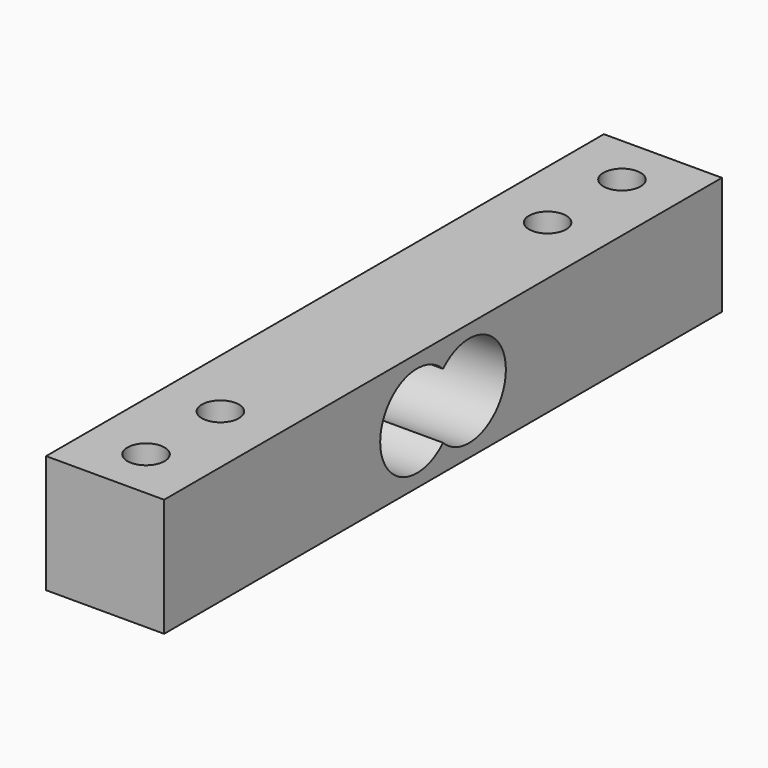
from build123d import *

# Parameters (mm, degrees)
SKETCH_W     = 12.7
SKETCH_H     = 75
SKETCH_R     = 2
PAD_DEPTH    = 12.7
POCKET_DEPTH = 12.701


with BuildPart() as part:
    # Sketch → Pad (new body)
    with BuildSketch(Plane.XY):
        with Locations((6.35, 37.5)):
            Rectangle(SKETCH_W, SKETCH_H)
        with Locations((6.35, 69.5)):
            Circle(SKETCH_R, mode=Mode.SUBTRACT)
        with Locations((6.35, 59.5)):
            Circle(SKETCH_R, mode=Mode.SUBTRACT)
        with Locations((6.35, 15.5)):
            Circle(SKETCH_R, mode=Mode.SUBTRACT)
        with Locations((6.35, 5.5)):
            Circle(SKETCH_R, mode=Mode.SUBTRACT)
    extrude(amount=PAD_DEPTH)

    # Sketch001 (on Face2 of Pad) → Pocket (cut, through all)
    with BuildSketch(Plane.YZ.offset(12.7)):
        with BuildLine():
            ThreePointArc((37.5, 2.85), (45.949747, 6.35), (37.5, 9.85))
            ThreePointArc((37.5, 9.85), (29.050253, 6.35), (37.5, 2.85))
        make_face()
    extrude(amount=-POCKET_DEPTH, mode=Mode.SUBTRACT)


solid = part.part
